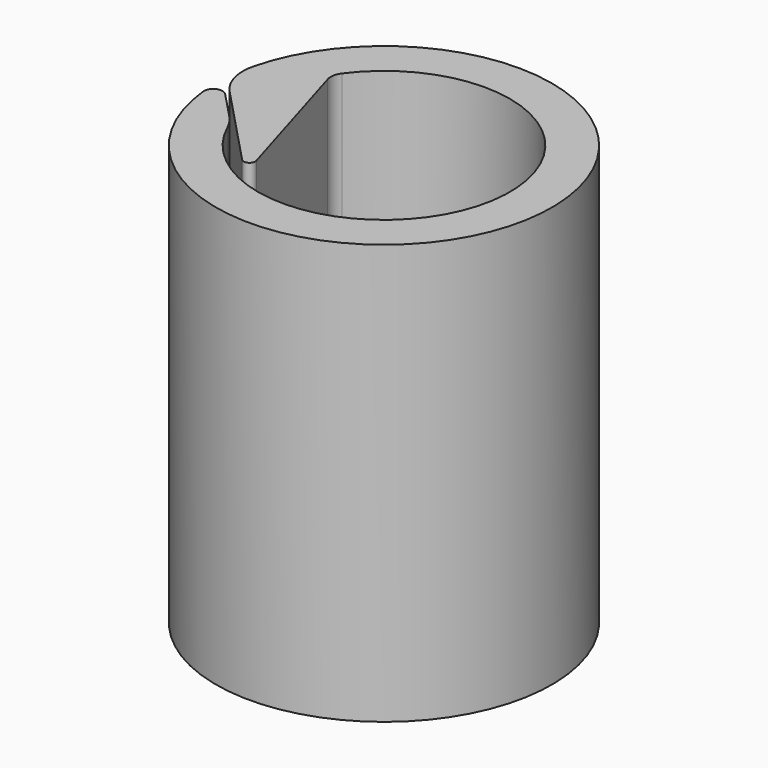
from build123d import *

# Parameters (mm, degrees)
PAD_DEPTH = 75


with BuildPart() as part:
    # Sketch → Pad (new body)
    with BuildSketch(Plane.XY):
        with BuildLine():
            ThreePointArc((-29.848016, -3.015947), (29.920505, -2.182515), (-29.094406, 7.315431))
            ThreePointArc((-29.094406, 7.315431), (-29.072912, 3.034578), (-26.991574, -0.706304))
            Line((-26.991574, -0.706304), (-12.739759, -15.728805))
            ThreePointArc((-12.739759, -15.728805), (-11.4789, -15.911046), (-11.008743, -14.727014))
            Line((-11.008743, -14.727014), (-18.604437, 10.709188))
            ThreePointArc((-18.160969, 13.282665), (-18.684551, 12.047942), (-18.604437, 10.709188))
            ThreePointArc((-20.499669, -9.27435), (22.380035, -2.320351), (-18.160969, 13.282665))
            ThreePointArc((-20.499669, -9.27435), (-21.232479, -7.959372), (-22.173804, -6.784601))
            Line((-22.173804, -6.784601), (-26.991574, -1.706304))
            ThreePointArc((-26.991574, -1.706304), (-28.888073, -1.339771), (-29.848016, -3.015947))
        make_face()
    extrude(amount=PAD_DEPTH)


solid = part.part
